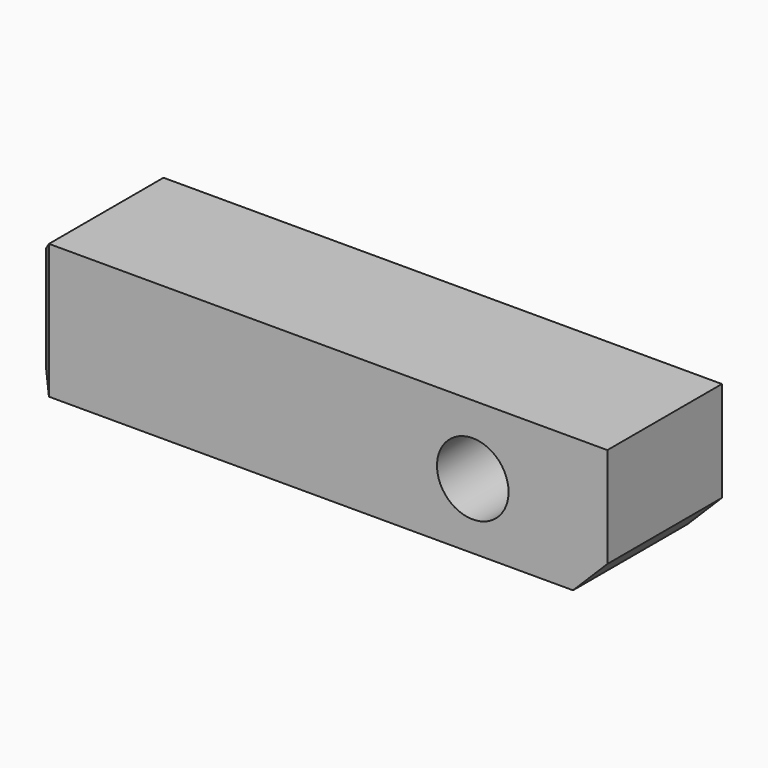
from build123d import *

# Parameters (mm, degrees)
F0_W     = 50.8
F0_H     = 11.938
F1_DEPTH = 12.7
F2_R     = 3.175
F3_DEPTH = 12.701
F5_DEPTH = 6.35
F6_SIZE  = 3.048
F7_SIZE  = 1.27


with BuildPart() as f1:
    # F0 (on Front) → F1 (new body)
    with BuildSketch(Plane.XZ):
        with Locations((-5.045198, 0.153461)):
            Rectangle(F0_W, F0_H)
    extrude(amount=F1_DEPTH)

    # F2 (on face) → F3 (cut, through all)
    with BuildSketch(Plane.XZ.offset(12.7)):
        with Locations((8.416499, 0)):
            Circle(F2_R)
    extrude(amount=-F3_DEPTH, mode=Mode.SUBTRACT)

    # F4 (on Top) → F5 (cut)
    with BuildSketch(Plane.XY):
        with BuildLine():
            ThreePointArc((-18.664943, -5.920342), (-15.166093, -9.419192), (-11.667243, -5.920342))
            ThreePointArc((-11.667243, -5.920342), (-15.166093, -2.421492), (-18.664943, -5.920342))
        make_face()
    extrude(amount=-F5_DEPTH, mode=Mode.SUBTRACT)

    # F6
    f6_edges = [f1.edges().sort_by_distance(p)[0] for p in [
        (20.354802, -6.35, -5.815539),
    ]]
    chamfer(f6_edges, length=F6_SIZE)

    # F7
    f7_edges = [f1.edges().sort_by_distance(p)[0] for p in [
        (-30.445198, -6.35, 6.122461),
        (-30.445198, -12.7, 0.153461),
        (-30.445198, -6.35, -5.815539),
        (-30.445198, 0, 0.153461),
    ]]
    chamfer(f7_edges, length=F7_SIZE)


solid = f1.part
